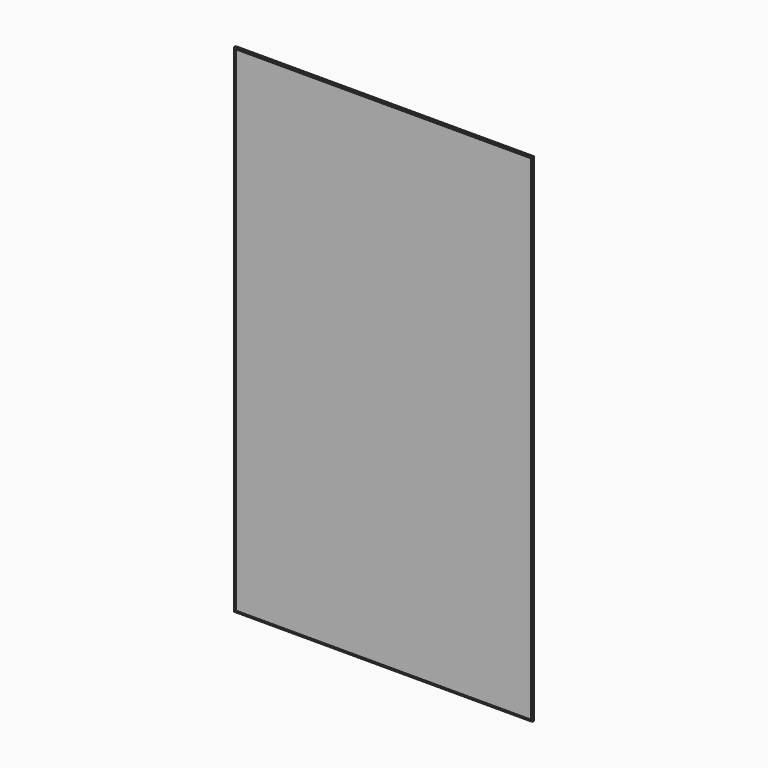
from build123d import *

# Parameters (mm, degrees)
F0_W     = 1500
F0_H     = 2500
F1_DEPTH = 1
F2_W     = 2
F2_H     = 2
F2_W_2   = 1496
F2_H_2   = 2496
F3_DEPTH = 7
F4_W     = 7
F4_H     = 7
F4_W_2   = 1486
F4_H_2   = 2486
F5_DEPTH = 2


with BuildPart() as f1:
    # F0 (on Front) → F1 (new body, symmetric)
    with BuildSketch(Plane.XZ):
        with Locations((-750, 1250)):
            Rectangle(F0_W, F0_H)
    extrude(amount=F1_DEPTH, both=True)

    # F2 (on face) → F3 (join)
    with BuildSketch(Plane.XZ.offset(1)):
        with Locations((-1499, 2499)):
            Rectangle(F2_W, F2_H)
        with Locations((-750, 2499)):
            Rectangle(F2_W_2, F2_H)
        with Locations((-1499, 1250)):
            Rectangle(F2_W, F2_H_2)
        with Locations((-1, 2499)):
            Rectangle(F2_W, F2_H)
        with Locations((-1499, 1)):
            Rectangle(F2_W, F2_H)
        with Locations((-750, 1)):
            Rectangle(F2_W_2, F2_H)
        with Locations((-1, 1250)):
            Rectangle(F2_W, F2_H_2)
        with Locations((-1, 1)):
            Rectangle(F2_W, F2_H)
    extrude(amount=F3_DEPTH)

    # F4 (on face) → F5 (join)
    with BuildSketch(Plane.XZ.offset(8)):
        with Locations((-1496.5, 2496.5)):
            Rectangle(F4_W, F4_H)
        with Locations((-750, 2496.5)):
            Rectangle(F4_W_2, F4_H)
        with Locations((-1496.5, 1250)):
            Rectangle(F4_W, F4_H_2)
        with Locations((-3.5, 2496.5)):
            Rectangle(F4_W, F4_H)
        with Locations((-1496.5, 3.5)):
            Rectangle(F4_W, F4_H)
        with Locations((-750, 3.5)):
            Rectangle(F4_W_2, F4_H)
        with Locations((-3.5, 1250)):
            Rectangle(F4_W, F4_H_2)
        with Locations((-3.5, 3.5)):
            Rectangle(F4_W, F4_H)
    extrude(amount=F5_DEPTH)


solid = f1.part
